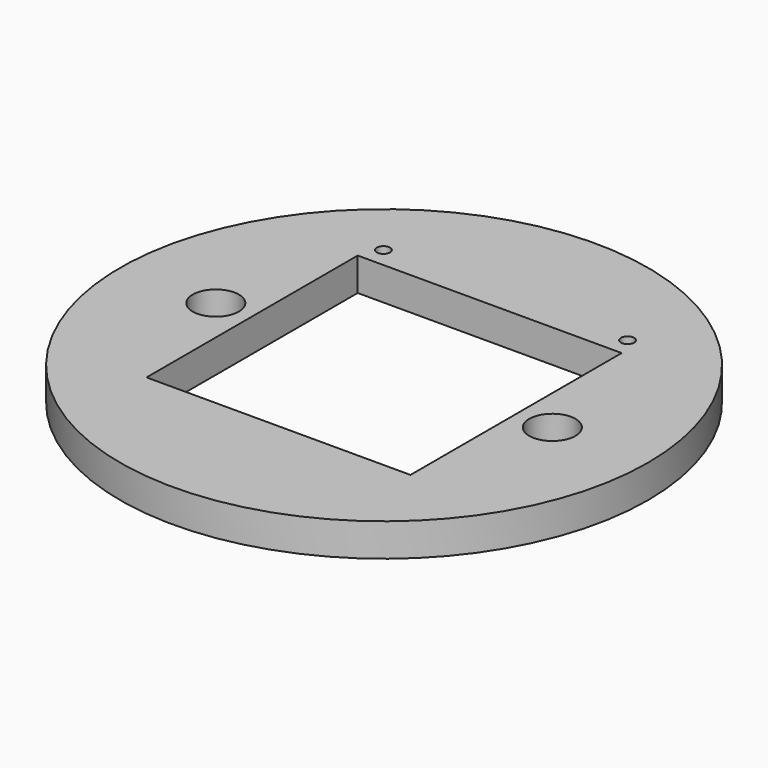
from build123d import *

# Parameters (mm, degrees)
F0_R     = 40
F0_R_2   = 3.5
F0_R_3   = 1
F0_W     = 40
F0_H     = 40
F1_DEPTH = 5


with BuildPart() as f1:
    # F0 (on Top) → F1 (new body)
    with BuildSketch(Plane.XY):
        Circle(F0_R)
        with Locations((-25.5, 0)):
            Circle(F0_R_2, mode=Mode.SUBTRACT)
        with Locations((-18.5, 23)):
            Circle(F0_R_3, mode=Mode.SUBTRACT)
        Rectangle(F0_W, F0_H, mode=Mode.SUBTRACT)
        with Locations((25.5, 0)):
            Circle(F0_R_2, mode=Mode.SUBTRACT)
        with Locations((18.5, 23)):
            Circle(F0_R_3, mode=Mode.SUBTRACT)
    extrude(amount=F1_DEPTH)


solid = f1.part
